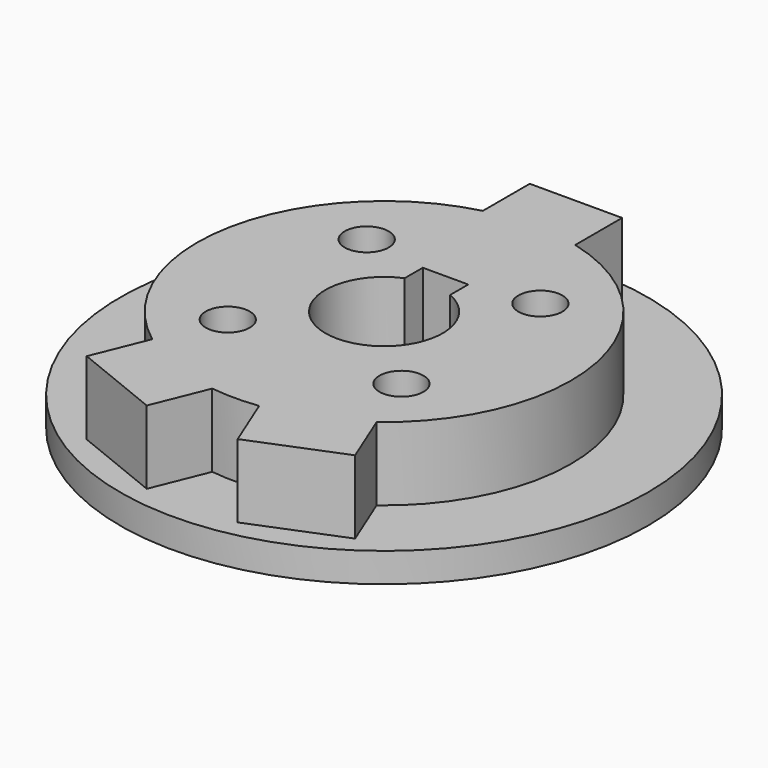
from build123d import *

# Parameters (mm, degrees)
F1_DEPTH = 5
F2_R     = 18
F3_DEPTH = 2
F4_R     = 1.5
F5_DEPTH = 7


with BuildPart() as f1:
    # F0 (on Top) → F1 (new body)
    with BuildSketch(Plane.XY):
        with BuildLine():
            Line((9.15, -13.908354), (7.649261, -10.200554))
            ThreePointArc((7.649261, -10.200554), (12.50366, 2.49419), (3.15, 12.354756))
            Line((3.15, 12.354756), (3.15, 16.354756))
            Line((3.15, 16.354756), (0, 16.354756))
            Line((0, 16.354756), (-3.15, 16.354756))
            Line((-3.15, 16.354756), (-3.15, 12.354756))
            ThreePointArc((-3.15, 12.354756), (-12.50366, 2.49419), (-7.649261, -10.200554))
            Line((-7.649261, -10.200554), (-9.15, -13.908354))
            Line((-9.15, -13.908354), (-3.1, -16.357103))
            Line((-3.1, -16.357103), (-1.599261, -12.649303))
            ThreePointArc((-1.599261, -12.649303), (0, -12.75), (1.599261, -12.649303))
            Line((1.599261, -12.649303), (3.1, -16.357103))
            Line((3.1, -16.357103), (9.15, -13.908354))
        make_face()
    extrude(amount=F1_DEPTH)

    # F2 (on face) → F3 (join)
    with BuildSketch(Plane(origin=(0, 0, 0), x_dir=(1, 0, 0), z_dir=(0, 0, -1))):
        Circle(F2_R)
    extrude(amount=F3_DEPTH)

    # F4 (on face) → F5 (cut, through all)
    with BuildSketch(Plane.XY.offset(5)):
        with BuildLine():
            Line((-1.55, 5.237479), (-1.55, 3.687479))
            ThreePointArc((-1.55, 3.687479), (0, -4), (1.55, 3.687479))
            Line((1.55, 3.687479), (1.55, 5.237479))
            Line((1.55, 5.237479), (0, 5.237479))
            Line((0, 5.237479), (-1.55, 5.237479))
        make_face()
        with Locations((-5.922019, 5.922019)):
            Circle(F4_R)
        with Locations((-5.922019, -5.922019)):
            Circle(F4_R)
        with Locations((5.922019, -5.922019)):
            Circle(F4_R)
        with Locations((5.922019, 5.922019)):
            Circle(F4_R)
    extrude(amount=-F5_DEPTH, mode=Mode.SUBTRACT)


solid = f1.part
